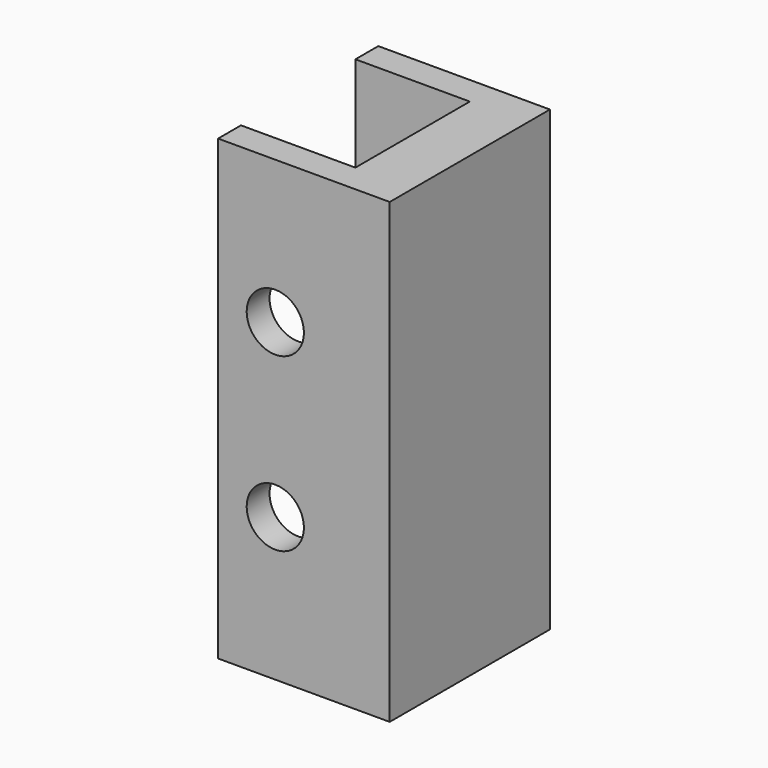
from build123d import *

# Parameters (mm, degrees)
F1_DEPTH = 203.2
F2_R     = 12.7
F3_DEPTH = 88.901


with BuildPart() as f1:
    # F0 (on Top) → F1 (new body)
    with BuildSketch(Plane.XY):
        Polygon((25.4, 44.45), (-50.8, 44.45), (-50.8, 31.75), (0, 31.75), (0, -31.75), (-50.8, -31.75), (-50.8, -44.45), (25.4, -44.45), align=None)
    extrude(amount=F1_DEPTH)

    # F2 (on face) → F3 (cut, through all)
    with BuildSketch(Plane(origin=(0, 44.45, 0), x_dir=(-1, 0, 0), z_dir=(0, 1, 0))):
        with Locations((25.4, 139.7)):
            Circle(F2_R)
        with Locations((25.4, 63.5)):
            Circle(F2_R)
    extrude(amount=-F3_DEPTH, mode=Mode.SUBTRACT)


solid = f1.part
